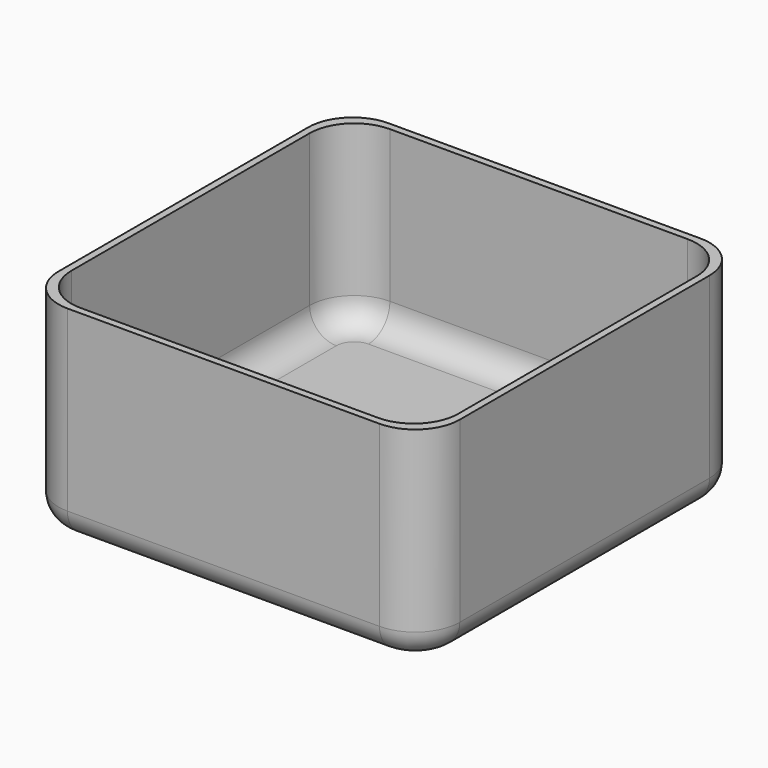
from build123d import *

# Parameters (mm, degrees)
F1_DEPTH = 20
F3_DEPTH = 3
F4_R     = 3
F5_R     = 3


with BuildPart() as f1:
    # F0 (on Top) → F1 (new body)
    with BuildSketch(Plane.XY):
        with BuildLine():
            Line((-17.5, -22.5), (17.5, -22.5))
            ThreePointArc((17.5, -22.5), (21.035534, -21.035534), (22.5, -17.5))
            Line((22.5, -17.5), (22.5, 17.5))
            ThreePointArc((22.5, 17.5), (21.035534, 21.035534), (17.5, 22.5))
            Line((17.5, 22.5), (-17.5, 22.5))
            ThreePointArc((-17.5, 22.5), (-21.035534, 21.035534), (-22.5, 17.5))
            Line((-22.5, 17.5), (-22.5, -17.5))
            ThreePointArc((-22.5, -17.5), (-21.035534, -21.035534), (-17.5, -22.5))
        make_face()
        with BuildLine():
            ThreePointArc((-16.7, -21.7), (-20.235534, -20.235534), (-21.7, -16.7))
            Line((-21.7, -16.7), (-21.7, 16.7))
            ThreePointArc((-21.7, 16.7), (-20.235534, 20.235534), (-16.7, 21.7))
            Line((-16.7, 21.7), (16.7, 21.7))
            ThreePointArc((16.7, 21.7), (20.235534, 20.235534), (21.7, 16.7))
            Line((21.7, 16.7), (21.7, -16.7))
            ThreePointArc((21.7, -16.7), (20.235534, -20.235534), (16.7, -21.7))
            Line((16.7, -21.7), (-16.7, -21.7))
        make_face(mode=Mode.SUBTRACT)
    extrude(amount=F1_DEPTH)

    # F2 (on Top) → F3 (join)
    with BuildSketch(Plane.XY):
        with BuildLine():
            ThreePointArc((22.5, 17.5), (21.035534, 21.035534), (17.5, 22.5))
            Line((17.5, 22.5), (-17.5, 22.5))
            ThreePointArc((-17.5, 22.5), (-21.035534, 21.035534), (-22.5, 17.5))
            Line((-22.5, 17.5), (-22.5, -17.5))
            ThreePointArc((-22.5, -17.5), (-21.035534, -21.035534), (-17.5, -22.5))
            Line((-17.5, -22.5), (17.5, -22.5))
            ThreePointArc((17.5, -22.5), (21.035534, -21.035534), (22.5, -17.5))
            Line((22.5, -17.5), (22.5, 17.5))
        make_face()
    extrude(amount=-F3_DEPTH)

    # F4
    f4_edges = [f1.edges().sort_by_distance(p)[0] for p in [
        (22.5, 0, -3),
        (21.035534, 21.035534, -3),
        (0, 22.5, -3),
        (-21.035534, 21.035534, -3),
        (-22.5, 0, -3),
        (-21.035534, -21.035534, -3),
        (0, -22.5, -3),
        (21.035534, -21.035534, -3),
    ]]
    fillet(f4_edges, radius=F4_R)

    # F5
    f5_edges = [f1.edges().sort_by_distance(p)[0] for p in [
        (0, -21.7, 0),
        (-20.235534, -20.235534, 0),
        (-21.7, 0, 0),
        (-20.235534, 20.235534, 0),
        (0, 21.7, 0),
        (20.235534, 20.235534, 0),
        (21.7, 0, 0),
        (20.235534, -20.235534, 0),
    ]]
    fillet(f5_edges, radius=F5_R)


solid = f1.part
